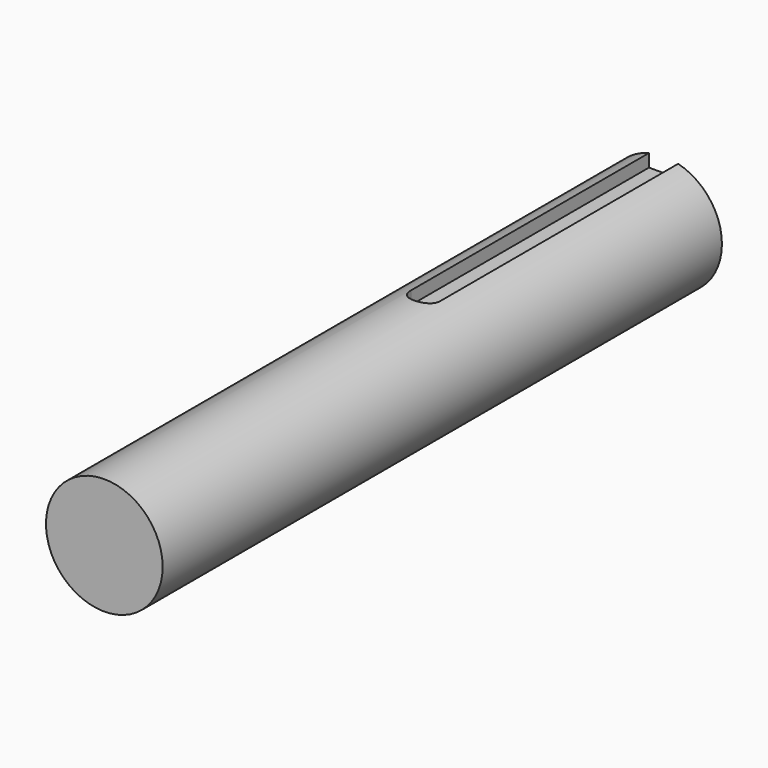
from build123d import *

# Parameters (mm, degrees)
F0_R     = 6.35
F1_DEPTH = 76.0984
F4_DEPTH = 1.6002


with BuildPart() as f1:
    # F0 (on Front) → F1 (new body)
    with BuildSketch(Plane.XZ):
        Circle(F0_R)
    extrude(amount=F1_DEPTH)

    # F3 (on offset) → F4 (cut)
    with BuildSketch(Plane.XY.offset(6.35)):
        with BuildLine():
            Line((-1.5875, 0), (-1.5875, -32.385))
            ThreePointArc((-1.5875, -32.385), (0, -33.9725), (1.5875, -32.385))
            Line((1.5875, -32.385), (1.5875, 0))
            Line((1.5875, 0), (-1.5875, 0))
        make_face()
    extrude(amount=-F4_DEPTH, mode=Mode.SUBTRACT)


solid = f1.part
